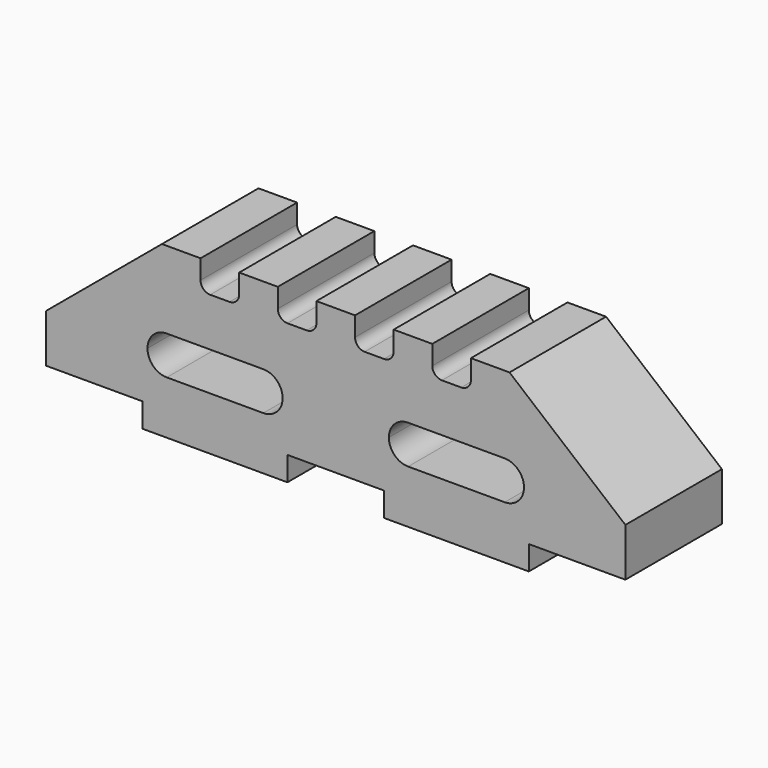
from build123d import *

# Parameters (mm, degrees)
F1_DEPTH = 25


with BuildPart() as f1:
    # F0 (on Front) → F1 (new body)
    with BuildSketch(Plane.XZ):
        with BuildLine():
            Line((-18.229698, -23.491548), (-18.229698, -18.491548))
            Line((-18.229698, -18.491548), (1.770302, -18.491548))
            Line((1.770302, -18.491548), (1.770302, -23.491548))
            Line((1.770302, -23.491548), (31.770302, -23.491548))
            Line((31.770302, -23.491548), (31.770302, -18.491548))
            Line((31.770302, -18.491548), (51.770302, -18.491548))
            Line((51.770302, -18.491548), (51.770302, -8.491548))
            Line((51.770302, -8.491548), (27.770302, 11.508452))
            Line((27.770302, 11.508452), (19.770302, 11.508452))
            Line((19.770302, 11.508452), (19.770302, 7.508452))
            ThreePointArc((19.770302, 7.508452), (19.184516, 6.094238), (17.770302, 5.508452))
            Line((17.770302, 5.508452), (13.770302, 5.508452))
            ThreePointArc((13.770302, 5.508452), (12.356089, 6.094238), (11.770302, 7.508452))
            Line((11.770302, 7.508452), (11.770302, 11.508452))
            Line((11.770302, 11.508452), (3.770302, 11.508452))
            Line((3.770302, 11.508452), (3.770302, 7.508452))
            ThreePointArc((3.770302, 7.508452), (3.184516, 6.094238), (1.770302, 5.508452))
            Line((1.770302, 5.508452), (-2.229698, 5.508452))
            ThreePointArc((-2.229698, 5.508452), (-3.643911, 6.094238), (-4.229698, 7.508452))
            Line((-4.229698, 7.508452), (-4.229698, 11.508452))
            Line((-4.229698, 11.508452), (-12.229698, 11.508452))
            Line((-12.229698, 11.508452), (-12.229698, 7.508452))
            ThreePointArc((-12.229698, 7.508452), (-12.815484, 6.094238), (-14.229698, 5.508452))
            Line((-14.229698, 5.508452), (-18.229698, 5.508452))
            ThreePointArc((-18.229698, 5.508452), (-19.643911, 6.094238), (-20.229698, 7.508452))
            Line((-20.229698, 7.508452), (-20.229698, 11.508452))
            Line((-20.229698, 11.508452), (-28.229698, 11.508452))
            Line((-28.229698, 11.508452), (-28.229698, 7.508452))
            ThreePointArc((-28.229698, 7.508452), (-28.815484, 6.094238), (-30.229698, 5.508452))
            Line((-30.229698, 5.508452), (-34.229698, 5.508452))
            ThreePointArc((-34.229698, 5.508452), (-35.643911, 6.094238), (-36.229698, 7.508452))
            Line((-36.229698, 7.508452), (-36.229698, 11.508452))
            Line((-36.229698, 11.508452), (-44.229698, 11.508452))
            Line((-44.229698, 11.508452), (-68.229698, -8.491548))
            Line((-68.229698, -8.491548), (-68.229698, -18.491548))
            Line((-68.229698, -18.491548), (-48.229698, -18.491548))
            Line((-48.229698, -18.491548), (-48.229698, -23.491548))
            Line((-48.229698, -23.491548), (-18.229698, -23.491548))
        make_face()
        with BuildLine():
            ThreePointArc((-19.229698, -8.491548), (-20.401271, -11.319975), (-23.229698, -12.491548))
            Line((-23.229698, -12.491548), (-43.229698, -12.491548))
            ThreePointArc((-43.229698, -12.491548), (-46.058125, -11.319975), (-47.229698, -8.491548))
            ThreePointArc((-47.229698, -8.491548), (-46.058125, -5.663121), (-43.229698, -4.491548))
            Line((-43.229698, -4.491548), (-23.229698, -4.491548))
            ThreePointArc((-23.229698, -4.491548), (-20.401271, -5.663121), (-19.229698, -8.491548))
        make_face(mode=Mode.SUBTRACT)
        with BuildLine():
            Line((26.770302, -12.491548), (6.770302, -12.491548))
            ThreePointArc((6.770302, -12.491548), (3.941875, -11.319975), (2.770302, -8.491548))
            ThreePointArc((2.770302, -8.491548), (3.941875, -5.663121), (6.770302, -4.491548))
            Line((6.770302, -4.491548), (26.770302, -4.491548))
            ThreePointArc((26.770302, -4.491548), (29.598729, -5.663121), (30.770302, -8.491548))
            ThreePointArc((30.770302, -8.491548), (29.598729, -11.319975), (26.770302, -12.491548))
        make_face(mode=Mode.SUBTRACT)
    extrude(amount=F1_DEPTH)


solid = f1.part
